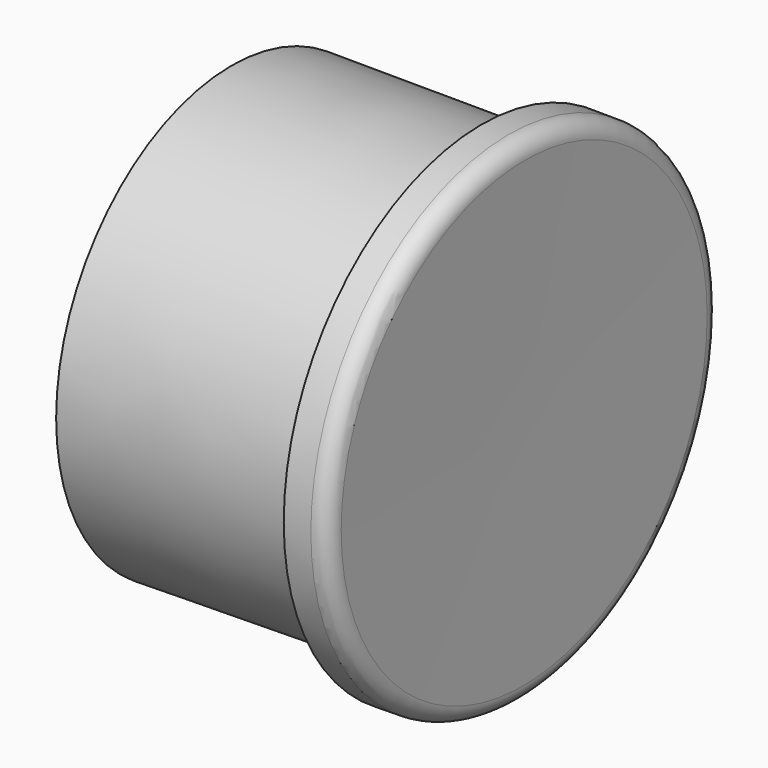
from build123d import *

# Parameters (mm, degrees)
F4_DEPTH = 15


with BuildPart() as f1:
    # F0 (on Top) → F1 (revolve)
    with BuildSketch(Plane.XY):
        with BuildLine():
            Line((-13.818119443, 25.4825330902), (-13.818119443, 22.4621165544))
            Line((-13.818119443, 22.4621165544), (-13.818119443, 0.4769424934))
            Line((-13.818119443, 0.4769424934), (-9.418119443, 0.5106326499))
            Line((-9.418119443, 0.5106326499), (-9.418119443, 23.7825330902))
            ThreePointArc((-9.418119443, 23.7825330902), (-9.916037915, 24.9846146182), (-11.118119443, 25.4825330902))
            Line((-11.118119443, 25.4825330902), (-13.818119443, 25.4825330902))
        make_face()
        Polygon((-13.818119443, 22.4621165544), (-38.818119443, 22.4621165544), (-38.818119443, 0.2855211496), (-13.818119443, 0.4769424934), align=None)
    revolve(axis=Axis((-24.118119443, 0.3980768998, 0), (-0.9999706876, -0.0076566293, 0)))

    # F3 (on offset) → F4 (cut)
    with BuildSketch(Plane.YZ.offset(50)):
        Polygon((-4.4728258744, -7.7471616678), (4.4728258744, -7.7471616678), (8.9456517487, 0), (4.4728258744, 7.7471616678), (-4.4728258744, 7.7471616678), (-8.9456517487, 0), align=None)
    extrude(amount=-F4_DEPTH, mode=Mode.SUBTRACT)


solid = f1.part
